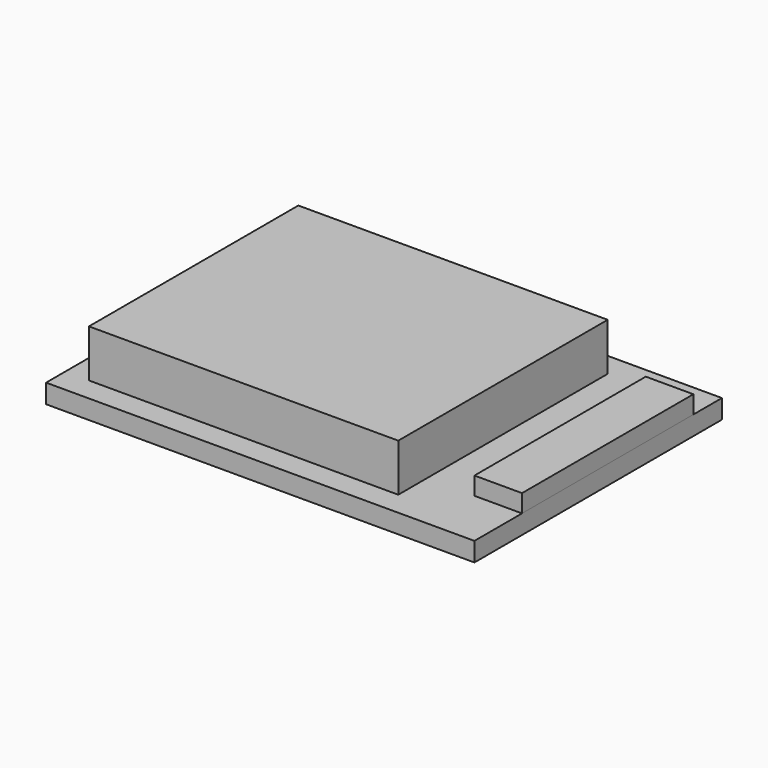
from build123d import *

# Parameters (mm, degrees)
BOX_W        = 18
BOX_H        = 13
BOX_DEPTH    = 0.8
BOX001_W     = 13
BOX001_H     = 11
BOX001_DEPTH = 2
BOX002_W     = 2
BOX002_H     = 9
BOX002_DEPTH = 0.75
BOX003_W     = 8
BOX003_H     = 8
BOX003_DEPTH = 0.8


with BuildPart() as pcb:
    # Box → Box (new body)
    with BuildSketch(Plane(origin=(0, -6.5, 0), x_dir=(1, 0, 0), z_dir=(0, 0, 1))):
        with Locations((9, 6.5)):
            Rectangle(BOX_W, BOX_H)
    extrude(amount=BOX_DEPTH)


with BuildPart() as shield:
    # Box001 → Box001 (new body)
    with BuildSketch(Plane(origin=(1, -5.5, 0.8), x_dir=(1, 0, 0), z_dir=(0, 0, 1))):
        with Locations((6.5, 5.5)):
            Rectangle(BOX001_W, BOX001_H)
    extrude(amount=BOX001_DEPTH)


with BuildPart() as antenna:
    # Box002 → Box002 (new body)
    with BuildSketch(Plane(origin=(16, -4, 0.8), x_dir=(1, 0, 0), z_dir=(0, 0, 1))):
        with Locations((1, 4.5)):
            Rectangle(BOX002_W, BOX002_H)
    extrude(amount=BOX002_DEPTH)


with BuildPart() as obj1:
    # Box003 → Box003 (new body)
    with BuildSketch(Plane(origin=(3, -4, 0.8), x_dir=(1, 0, 0), z_dir=(0, 0, 1))):
        with Locations((4, 4)):
            Rectangle(BOX003_W, BOX003_H)
    extrude(amount=BOX003_DEPTH)


solid = Compound([pcb.part, shield.part, antenna.part, obj1.part])
